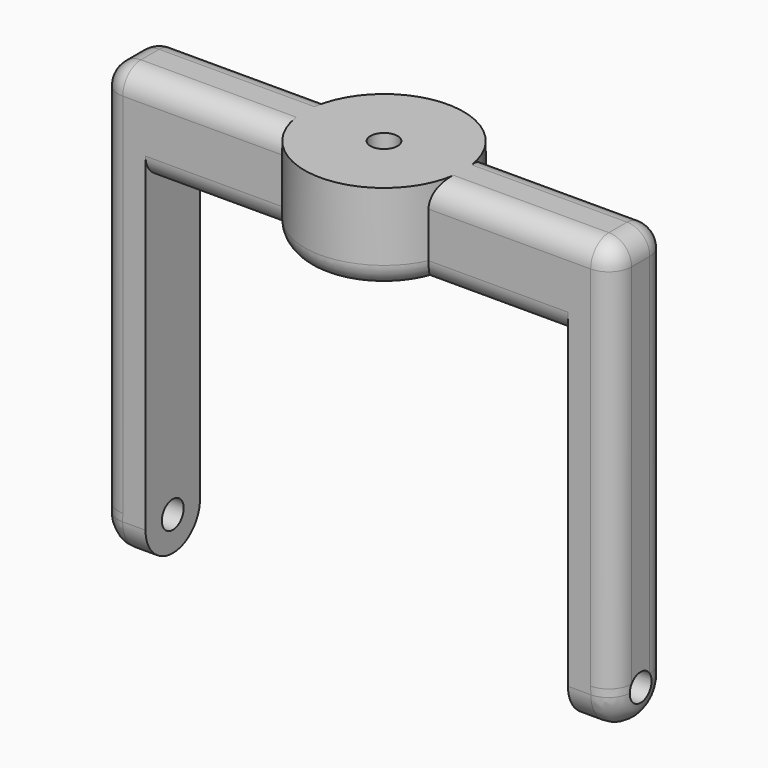
from build123d import *

# Parameters (mm, degrees)
F0_W     = 10
F0_H     = 15
F0_R     = 6
F0_R_2   = 3
F1_DEPTH = 20
F2_DEPTH = 75
F3_DEPTH = 10
F4_R     = 3
F5_DEPTH = 113.001
F6_R     = 5


with BuildPart() as f1:
    # F0 (on Top) → F1 (new body)
    with BuildSketch(Plane.XY):
        with Locations((-51.5, 0)):
            Rectangle(F0_W, F0_H)
        with BuildLine():
            ThreePointArc((-15.8113883008, -7.5), (-17.5, 0), (-15.8113883008, 7.5))
            Line((-15.8113883008, 7.5), (-46.5, 7.5))
            Line((-46.5, 7.5), (-46.5, -7.5))
            Line((-46.5, -7.5), (-15.8113883008, -7.5))
        make_face()
        with BuildLine():
            ThreePointArc((15.8113883008, -7.5), (17.0726286093, -3.843872054), (17.5, 0))
            ThreePointArc((17.5, 0), (17.0726286093, 3.843872054), (15.8113883008, 7.5))
            Line((15.8113883008, 7.5), (-15.8113883008, 7.5))
            ThreePointArc((-15.8113883008, 7.5), (-17.5, 0), (-15.8113883008, -7.5))
            Line((-15.8113883008, -7.5), (15.8113883008, -7.5))
        make_face()
        Circle(F0_R, mode=Mode.SUBTRACT)
        with BuildLine():
            Line((-15.8113883008, 7.5), (15.8113883008, 7.5))
            ThreePointArc((15.8113883008, 7.5), (0, 17.5), (-15.8113883008, 7.5))
        make_face()
        with BuildLine():
            ThreePointArc((-15.8113883008, -7.5), (0, -17.5), (15.8113883008, -7.5))
            Line((15.8113883008, -7.5), (-15.8113883008, -7.5))
        make_face()
        Circle(F0_R)
        Circle(F0_R_2, mode=Mode.SUBTRACT)
        with BuildLine():
            ThreePointArc((15.8113883008, 7.5), (17.0726286093, 3.843872054), (17.5, 0))
            ThreePointArc((17.5, 0), (17.0726286093, -3.843872054), (15.8113883008, -7.5))
            Line((15.8113883008, -7.5), (46.5, -7.5))
            Line((46.5, -7.5), (46.5, 7.5))
            Line((46.5, 7.5), (15.8113883008, 7.5))
        make_face()
        with Locations((51.5, 0)):
            Rectangle(F0_W, F0_H)
    extrude(amount=F1_DEPTH)

    # F0 (on Top) → F2 (join)
    with BuildSketch(Plane.XY):
        with Locations((-51.5, 0)):
            Rectangle(F0_W, F0_H)
        with Locations((51.5, 0)):
            Rectangle(F0_W, F0_H)
    extrude(amount=-F2_DEPTH)

    # F0 (on Top) → F3 (cut)
    with BuildSketch(Plane.XY):
        Circle(F0_R)
        Circle(F0_R_2, mode=Mode.SUBTRACT)
    extrude(amount=F3_DEPTH, mode=Mode.SUBTRACT)

    # F4 (on face) → F5 (cut, through all)
    with BuildSketch(Plane.YZ.offset(56.5)):
        with BuildLine():
            Line((7.5, -75), (7.5, -67.5))
            ThreePointArc((7.5, -67.5), (5.3033008589, -72.8033008589), (0, -75))
            Line((0, -75), (7.5, -75))
        make_face()
        with BuildLine():
            Line((-7.5, -75), (0, -75))
            ThreePointArc((0, -75), (-5.3033008589, -72.8033008589), (-7.5, -67.5))
            Line((-7.5, -67.5), (-7.5, -75))
        make_face()
        with Locations((0, -67.5)):
            Circle(F4_R)
    extrude(amount=-F5_DEPTH, mode=Mode.SUBTRACT)

    # F6
    f6_edges = [f1.edges().sort_by_distance(p)[0] for p in [
        (-36.155694, -7.5, 20),
        (-56.5, -7.5, -23.75),
        (56.5, -7.5, -23.75),
        (36.155694, -7.5, 20),
        (56.5, 0, 20),
        (-56.5, 0, 20),
        (-36.155694, 7.5, 20),
        (36.155694, 7.5, 20),
        (0, -17.5, 0),
        (-31.155694, -7.5, 0),
        (31.155694, -7.5, 0),
        (-31.155694, 7.5, 0),
        (31.155694, 7.5, 0),
        (0, 17.5, 0),
    ]]
    fillet(f6_edges, radius=F6_R)


solid = f1.part
